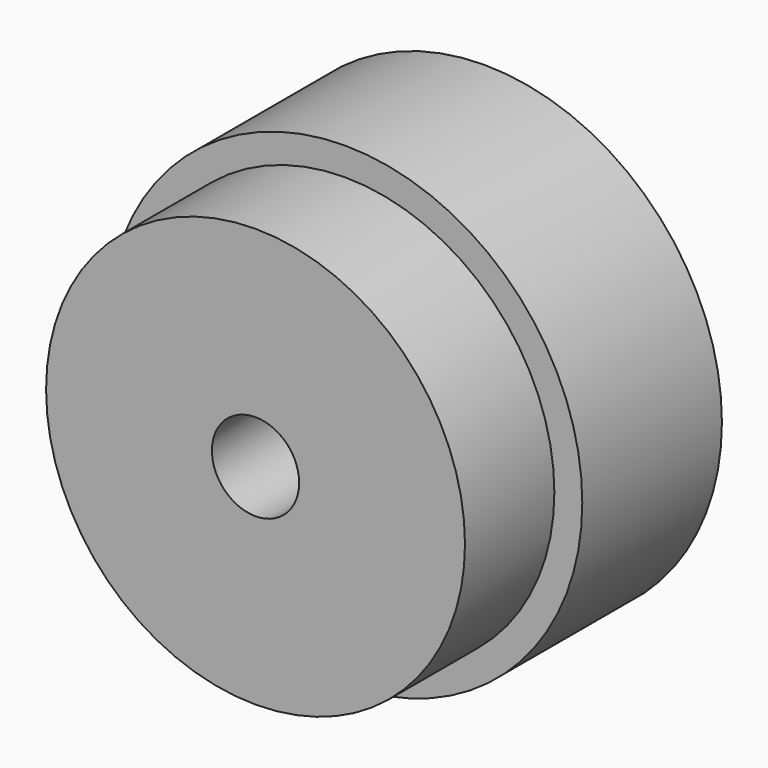
from build123d import *

# Parameters (mm, degrees)
F0_R     = 4.318
F1_DEPTH = 3.175
F2_R     = 3.81
F3_DEPTH = 2.032
F4_R     = 0.79375
F5_DEPTH = 5.208


with BuildPart() as f1:
    # F0 (on Front) → F1 (new body)
    with BuildSketch(Plane.XZ):
        Circle(F0_R)
    extrude(amount=-F1_DEPTH)

    # F2 (on face) → F3 (join)
    with BuildSketch(Plane.XZ):
        Circle(F2_R)
    extrude(amount=F3_DEPTH)

    # F4 (on face) → F5 (cut, through all)
    with BuildSketch(Plane.XZ.offset(2.032)):
        Circle(F4_R)
    extrude(amount=-F5_DEPTH, mode=Mode.SUBTRACT)


solid = f1.part
